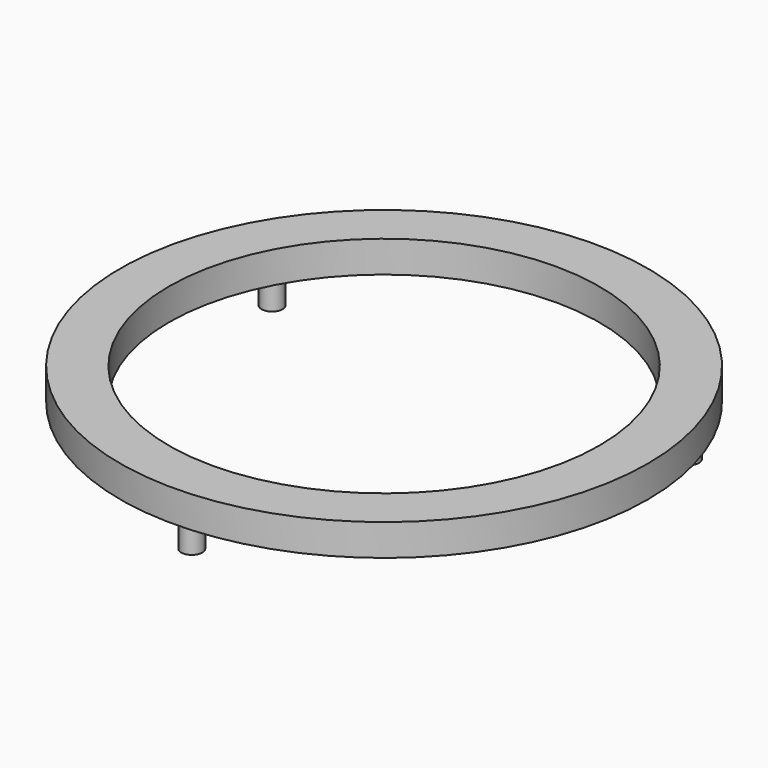
from build123d import *

# Parameters (mm, degrees)
F0_R     = 50.169714
F0_R_2   = 40.927246
F1_DEPTH = 6
F2_R     = 2
F3_DEPTH = 6


with BuildPart() as f1:
    # F0 (on Top) → F1 (new body)
    with BuildSketch(Plane.XY):
        Circle(F0_R)
        Circle(F0_R_2, mode=Mode.SUBTRACT)
    extrude(amount=F1_DEPTH)

    # F2 (on face) → F3 (join)
    with BuildSketch(Plane(origin=(0, 0, 0), x_dir=(1, 0, 0), z_dir=(0, 0, -1))):
        with Locations((0, 45.682818)):
            Circle(F2_R)
        with Locations((-39.562481, -22.841409)):
            Circle(F2_R)
        with Locations((39.562481, -22.841409)):
            Circle(F2_R)
    extrude(amount=F3_DEPTH)


solid = f1.part
